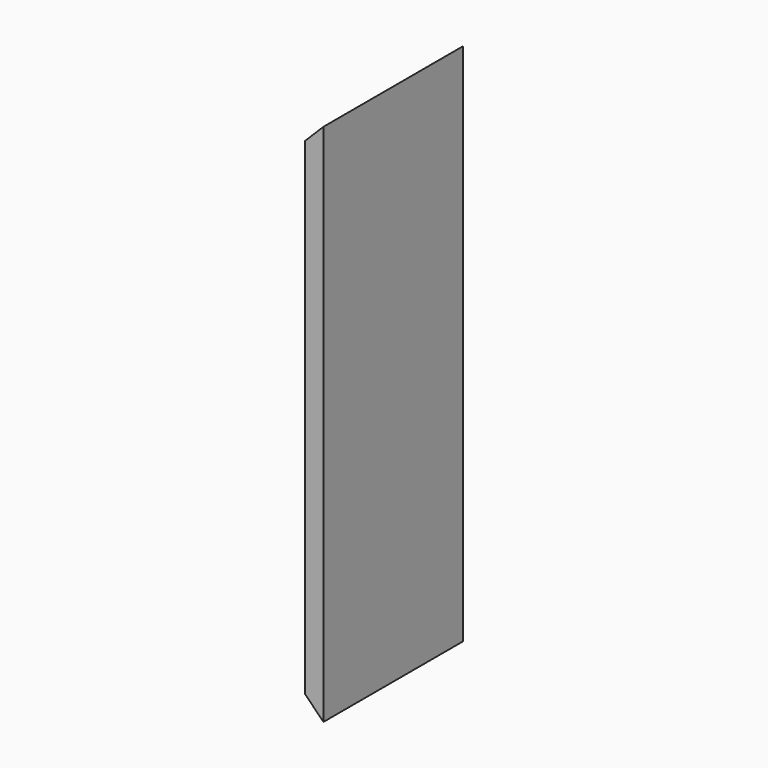
from build123d import *

# Parameters (mm, degrees)
F1_DEPTH = 88.9
F2_W     = 88.9
F2_H     = 19.05
F3_DEPTH = 6.35


with BuildPart() as f1:
    # F0 (on Front) → F1 (new body, symmetric)
    with BuildSketch(Plane.XZ):
        Polygon((19.05, 514.35), (19.05, 19.05), (38.1, 0), (38.1, 533.4), align=None)
    extrude(amount=F1_DEPTH, both=True)

    # F2 (on face) → F3 (cut)
    with BuildSketch(Plane(origin=(19.05, 0, 0), x_dir=(0, -1, 0), z_dir=(-1, 0, 0))):
        with Locations((-44.45, 180.975)):
            Rectangle(F2_W, F2_H)
        with Locations((-44.45, 352.425)):
            Rectangle(F2_W, F2_H)
    extrude(amount=-F3_DEPTH, mode=Mode.SUBTRACT)


solid = f1.part
